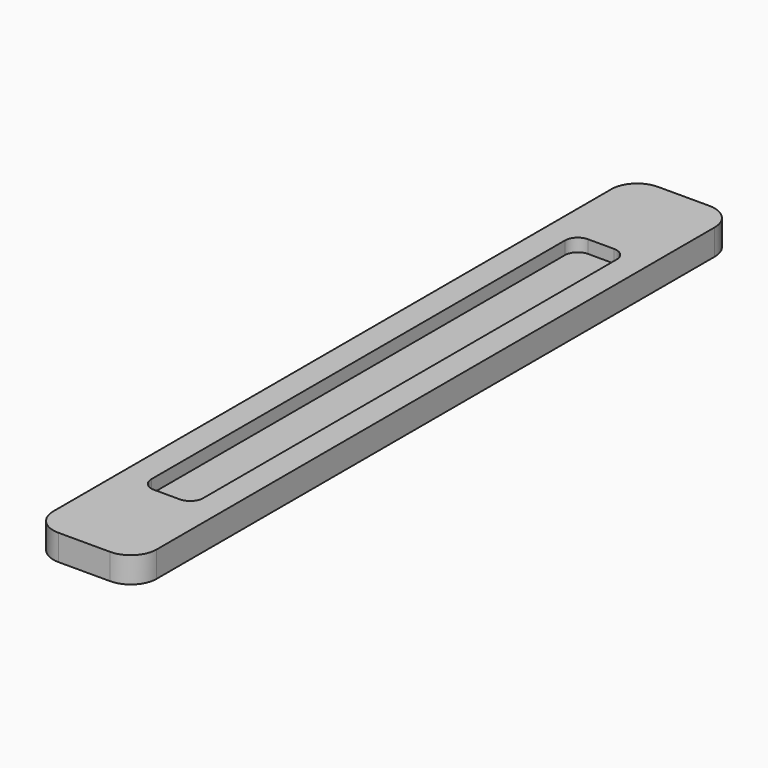
from build123d import *

# Parameters (mm, degrees)
F0_W     = 0.8
F0_H     = 5.8
F1_DEPTH = 0.2
F3_DEPTH = 0.1
F4_R     = 0.2
F5_R     = 0.1


with BuildPart() as f1:
    # F0 (on Top) → F1 (new body)
    with BuildSketch(Plane.XY):
        Rectangle(F0_W, F0_H)
    extrude(amount=F1_DEPTH)

    # F2 (on face) → F3 (cut)
    with BuildSketch(Plane.XY.offset(0.2)):
        Polygon((0.2, 2.1), (0, 2.1), (-0.2, 2.1), (-0.2, -2.1), (0, -2.1), (0.2, -2.1), align=None)
    extrude(amount=-F3_DEPTH, mode=Mode.SUBTRACT)

    # F4
    f4_edges = [f1.edges().sort_by_distance(p)[0] for p in [
        (0.4, 2.9, 0.1),
        (-0.4, 2.9, 0.1),
        (0.4, -2.9, 0.1),
        (-0.4, -2.9, 0.1),
    ]]
    fillet(f4_edges, radius=F4_R)

    # F5
    f5_edges = [f1.edges().sort_by_distance(p)[0] for p in [
        (0.2, 2.1, 0.15),
        (-0.2, 2.1, 0.15),
        (-0.2, -2.1, 0.15),
        (0.2, -2.1, 0.15),
    ]]
    fillet(f5_edges, radius=F5_R)


solid = f1.part
